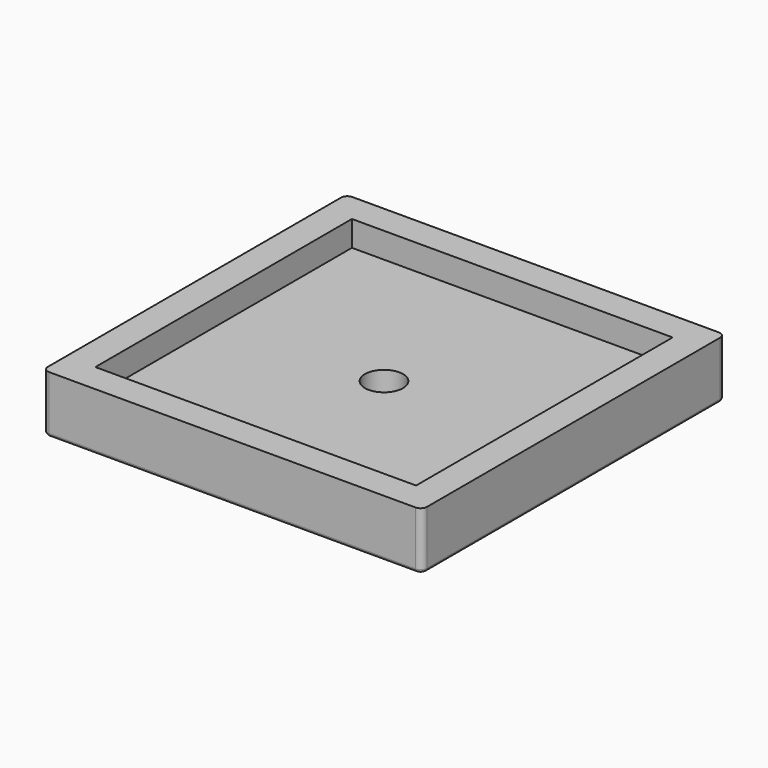
from build123d import *

# Parameters (mm, degrees)
F0_W     = 101
F0_H     = 101
F0_R     = 6
F1_DEPTH = 10
F0_W_2   = 119.4
F0_H_2   = 119.4
F2_DEPTH = 18
F3_R     = 2
F4_R     = 1


with BuildPart() as f1:
    # F0 (on Top) → F1 (new body)
    with BuildSketch(Plane.XY):
        Rectangle(F0_W, F0_H)
        Circle(F0_R, mode=Mode.SUBTRACT)
    extrude(amount=F1_DEPTH)

    # F0 (on Top) → F2 (join)
    with BuildSketch(Plane.XY):
        Rectangle(F0_W_2, F0_H_2)
        Rectangle(F0_W, F0_H, mode=Mode.SUBTRACT)
    extrude(amount=F2_DEPTH)

    # F3
    f3_edges = [f1.edges().sort_by_distance(p)[0] for p in [
        (-59.7, -59.7, 9),
        (59.7, -59.7, 9),
        (59.7, 59.7, 9),
        (-59.7, 59.7, 9),
    ]]
    fillet(f3_edges, radius=F3_R)

    # F4
    f4_edges = [f1.edges().sort_by_distance(p)[0] for p in [
        (59.7, 0, 0),
        (59.114214, -59.114214, 0),
        (59.114214, 59.114214, 0),
        (0, -59.7, 0),
        (0, 59.7, 0),
        (-59.114214, -59.114214, 0),
        (-59.114214, 59.114214, 0),
        (-59.7, 0, 0),
        (-6, 0, 0),
    ]]
    fillet(f4_edges, radius=F4_R)


solid = f1.part
